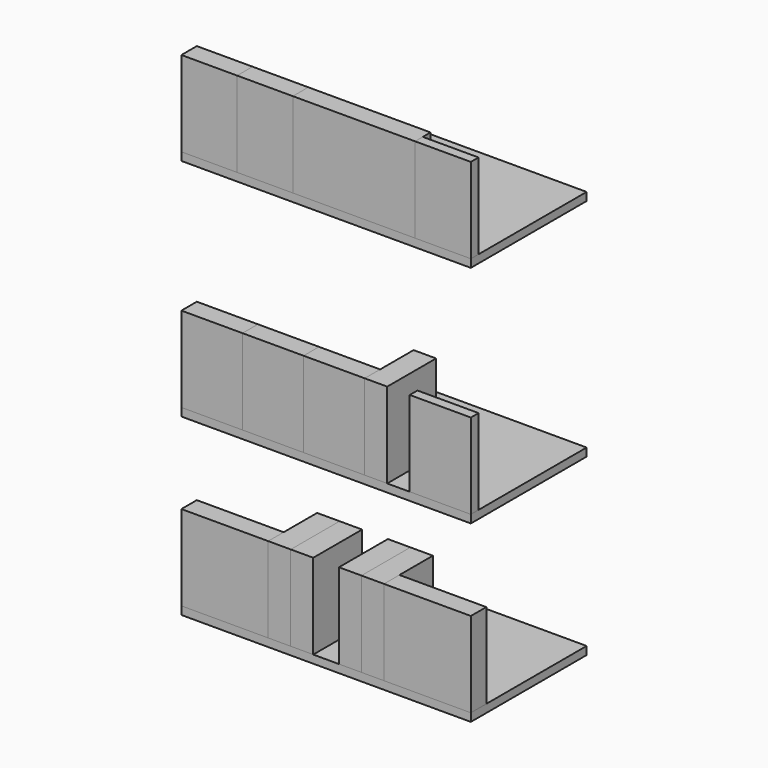
from build123d import *

# Parameters (mm, degrees)
F1_DEPTH = 450
F0_W     = 173.333334
F0_H     = 265
F0_W_2   = 190
F0_W_3   = 270
F2_DEPTH = 60
F0_W_4   = 173.333333
F3_DEPTH = 60
F0_W_5   = 380
F4_DEPTH = 60
F5_DEPTH = 30
F6_DEPTH = 60
F0_W_6   = 70
F7_DEPTH = 190
F8_DEPTH = 190


with BuildPart() as f1:
    # F0 (on Front) → F1 (new body)
    with BuildSketch(Plane.XZ):
        Polygon((-416.666667, -12.5), (483.333333, -12.5), (483.333333, 12.5), (310, 12.5), (-70, 12.5), (-243.333333, 12.5), (-416.666667, 12.5), align=None)
        Polygon((-416.666657, -712.125778), (483.333343, -712.125778), (483.333343, -687.125778), (293.333343, -687.125778), (223.333343, -687.125778), (153.333343, -687.125778), (-36.666657, -687.125778), (-226.666657, -687.125778), (-416.666657, -687.125778), align=None)
        Polygon((-416.666657, -1255.312204), (483.333343, -1255.312204), (483.333343, -1230.312204), (213.333343, -1230.312204), (143.333343, -1230.312204), (73.333343, -1230.312204), (-6.666657, -1230.312204), (-76.666657, -1230.312204), (-146.666657, -1230.312204), (-416.666657, -1230.312204), align=None)
    extrude(amount=-F1_DEPTH)


with BuildPart() as f2:
    # F0 (on Front) → F2 (new body)
    with BuildSketch(Plane.XZ):
        with Locations((-330, 145)):
            Rectangle(F0_W, F0_H)
        with Locations((-321.666657, -554.625778)):
            Rectangle(F0_W_2, F0_H)
        with Locations((58.333343, -554.625778)):
            Rectangle(F0_W_2, F0_H)
        with Locations((-281.666657, -1097.812204)):
            Rectangle(F0_W_3, F0_H)
        with Locations((348.333343, -1097.812204)):
            Rectangle(F0_W_3, F0_H)
    extrude(amount=-F2_DEPTH)


with BuildPart() as f3:
    # F0 (on Front) → F3 (new body)
    with BuildSketch(Plane.XZ):
        with Locations((-156.666666, 145)):
            Rectangle(F0_W_4, F0_H)
    extrude(amount=-F3_DEPTH)


with BuildPart() as f4:
    # F0 (on Front) → F4 (new body)
    with BuildSketch(Plane.XZ):
        with Locations((120, 145)):
            Rectangle(F0_W_5, F0_H)
    extrude(amount=-F4_DEPTH)


with BuildPart() as f5:
    # F0 (on Front) → F5 (new body)
    with BuildSketch(Plane.XZ):
        with Locations((396.666667, 145)):
            Rectangle(F0_W_4, F0_H)
        with Locations((388.333343, -554.625778)):
            Rectangle(F0_W_2, F0_H)
    extrude(amount=-F5_DEPTH)


with BuildPart() as f6:
    # F0 (on Front) → F6 (new body)
    with BuildSketch(Plane.XZ):
        with Locations((-131.666657, -554.625778)):
            Rectangle(F0_W_2, F0_H)
    extrude(amount=-F6_DEPTH)


with BuildPart() as f7:
    # F0 (on Front) → F7 (new body)
    with BuildSketch(Plane.XZ):
        with Locations((188.333343, -554.625778)):
            Rectangle(F0_W_6, F0_H)
        with Locations((-111.666657, -1097.812204)):
            Rectangle(F0_W_6, F0_H)
        with Locations((178.333343, -1097.812204)):
            Rectangle(F0_W_6, F0_H)
    extrude(amount=-F7_DEPTH)


with BuildPart() as f8:
    # F0 (on Front) → F8 (new body)
    with BuildSketch(Plane.XZ):
        with Locations((-41.666657, -1097.812204)):
            Rectangle(F0_W_6, F0_H)
        with Locations((108.333343, -1097.812204)):
            Rectangle(F0_W_6, F0_H)
    extrude(amount=-F8_DEPTH)


solid = Compound([f1.part, f2.part, f3.part, f4.part, f5.part, f6.part, f7.part, f8.part])
